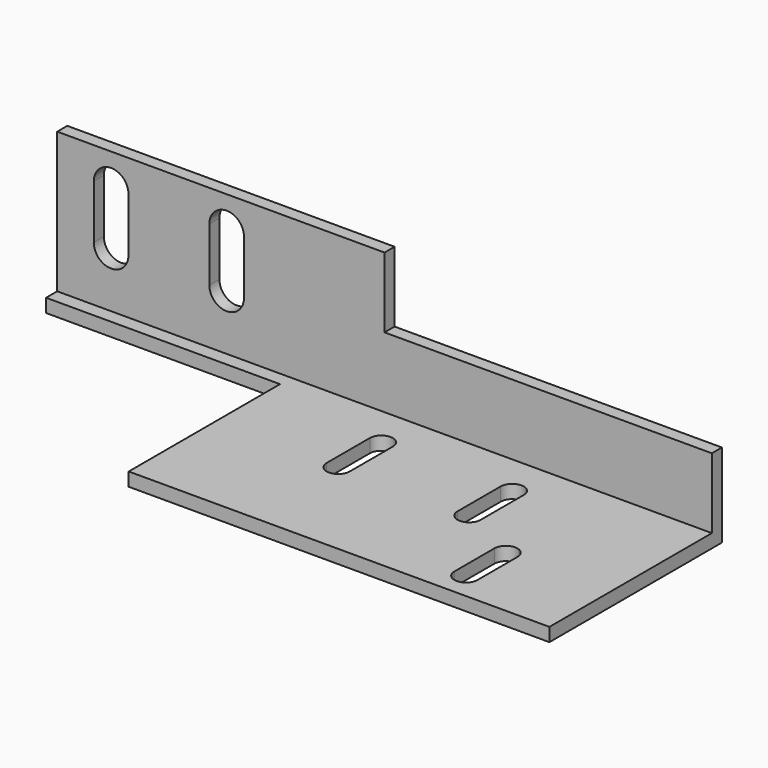
from build123d import *

# Parameters (mm, degrees)
F0_W      = 85
F0_H      = 28
F1_DEPTH  = 20
F2_W      = 26.3659512028
F2_H      = 18.2506702654
F3_DEPTH  = 121
F4_W      = 30.3753349185
F4_H      = 24.556301102
F5_DEPTH  = 25
F6_W      = 42.5
F6_H      = 9.1253351327
F7_DEPTH  = 25
F9_DEPTH  = 25
F11_DEPTH = 25


with BuildPart() as f1:
    # F0 (on Top) → F1 (new body)
    with BuildSketch(Plane.XY):
        Rectangle(F0_W, F0_H)
    extrude(amount=F1_DEPTH)

    # F2 (on face) → F3 (cut)
    with BuildSketch(Plane.YZ.offset(42.5)):
        with Locations((-0.8170243986, 10.8746648673)):
            Rectangle(F2_W, F2_H)
    extrude(amount=-F3_DEPTH, mode=Mode.SUBTRACT)

    # F4 (on face) → F5 (cut)
    with BuildSketch(Plane.XY.offset(1.7493297346)):
        with Locations((-27.3123325408, -1.721849449)):
            Rectangle(F4_W, F4_H)
    extrude(amount=-F5_DEPTH, mode=Mode.SUBTRACT)

    # F6 (on face) → F7 (cut)
    with BuildSketch(Plane.XZ.offset(-12.3659512028)):
        with Locations((21.25, 15.4373324336)):
            Rectangle(F6_W, F6_H)
    extrude(amount=-F7_DEPTH, mode=Mode.SUBTRACT)

    # F8 (on face) → F9 (cut)
    with BuildSketch(Plane.XZ.offset(-12.3659512028)):
        with BuildLine():
            ThreePointArc((-37.75, 15.8746648673), (-35.5, 13.6246648673), (-33.25, 15.8746648673))
            ThreePointArc((-33.25, 15.8746648673), (-35.5, 18.1246648673), (-37.75, 15.8746648673))
        make_face()
        with BuildLine():
            Line((-33.25, 8.8746648673), (-33.25, 15.8746648673))
            ThreePointArc((-33.25, 15.8746648673), (-35.5, 13.6246648673), (-37.75, 15.8746648673))
            Line((-37.75, 15.8746648673), (-37.75, 8.8746648673))
            ThreePointArc((-37.75, 8.8746648673), (-35.5, 11.1246648673), (-33.25, 8.8746648673))
        make_face()
        with BuildLine():
            ThreePointArc((-37.75, 8.8746648673), (-35.5, 6.6246648673), (-33.25, 8.8746648673))
            ThreePointArc((-33.25, 8.8746648673), (-35.5, 11.1246648673), (-37.75, 8.8746648673))
        make_face()
        with BuildLine():
            ThreePointArc((-22.75, 8.8746648673), (-20.5, 6.6246648673), (-18.25, 8.8746648673))
            ThreePointArc((-18.25, 8.8746648673), (-20.5, 11.1246648673), (-22.75, 8.8746648673))
        make_face()
        with BuildLine():
            ThreePointArc((-22.75, 8.8746648673), (-20.5, 11.1246648673), (-18.25, 8.8746648673))
            Line((-18.25, 8.8746648673), (-18.25, 15.8746648673))
            ThreePointArc((-18.25, 15.8746648673), (-20.5, 13.6246648673), (-22.75, 15.8746648673))
            Line((-22.75, 15.8746648673), (-22.75, 8.8746648673))
        make_face()
        with BuildLine():
            ThreePointArc((-22.75, 15.8746648673), (-20.5, 13.6246648673), (-18.25, 15.8746648673))
            ThreePointArc((-18.25, 15.8746648673), (-20.5, 18.1246648673), (-22.75, 15.8746648673))
        make_face()
    extrude(amount=-F9_DEPTH, mode=Mode.SUBTRACT)

    # F10 (on face) → F11 (cut)
    with BuildSketch(Plane.XY.offset(1.7493297346)):
        with BuildLine():
            ThreePointArc((2.3753349185, 7), (3.8753349185, 5.5), (5.3753349185, 7))
            ThreePointArc((5.3753349185, 7), (3.8753349185, 8.5), (2.3753349185, 7))
        make_face()
        with BuildLine():
            Line((5.3753349185, 0), (5.3753349185, 7))
            ThreePointArc((5.3753349185, 7), (3.8753349185, 5.5), (2.3753349185, 7))
            Line((2.3753349185, 7), (2.3753349185, 0))
            ThreePointArc((2.3753349185, 0), (3.8753349185, 1.5), (5.3753349185, 0))
        make_face()
        with BuildLine():
            ThreePointArc((2.3753349185, 0), (3.8753349185, -1.5), (5.3753349185, 0))
            ThreePointArc((5.3753349185, 0), (3.8753349185, 1.5), (2.3753349185, 0))
        make_face()
        with BuildLine():
            ThreePointArc((19.3753349185, 7), (20.8753349185, 5.5), (22.3753349185, 7))
            ThreePointArc((22.3753349185, 7), (20.8753349185, 8.5), (19.3753349185, 7))
        make_face()
        with BuildLine():
            Line((22.3753349185, 0), (22.3753349185, 7))
            ThreePointArc((22.3753349185, 7), (20.8753349185, 5.5), (19.3753349185, 7))
            Line((19.3753349185, 7), (19.3753349185, 0))
            ThreePointArc((19.3753349185, 0), (20.8753349185, 1.5), (22.3753349185, 0))
        make_face()
        with BuildLine():
            ThreePointArc((19.3753349185, 0), (20.8753349185, -1.5), (22.3753349185, 0))
            ThreePointArc((22.3753349185, 0), (20.8753349185, 1.5), (19.3753349185, 0))
        make_face()
        with BuildLine():
            ThreePointArc((27.3753349185, -4.0281792737), (28.8753349185, -5.5281792737), (30.3753349185, -4.0281792737))
            ThreePointArc((30.3753349185, -4.0281792737), (28.8753349185, -2.5281792737), (27.3753349185, -4.0281792737))
        make_face()
        with BuildLine():
            Line((30.3753349185, -10.5132134631), (30.3753349185, -4.0281792737))
            ThreePointArc((30.3753349185, -4.0281792737), (28.8753349185, -5.5281792737), (27.3753349185, -4.0281792737))
            Line((27.3753349185, -4.0281792737), (27.3753349185, -10.5132134631))
            ThreePointArc((27.3753349185, -10.5132134631), (28.8753349185, -9.0132134631), (30.3753349185, -10.5132134631))
        make_face()
        with BuildLine():
            ThreePointArc((27.3753349185, -10.5132134631), (28.8753349185, -12.0132134631), (30.3753349185, -10.5132134631))
            ThreePointArc((30.3753349185, -10.5132134631), (28.8753349185, -9.0132134631), (27.3753349185, -10.5132134631))
        make_face()
    extrude(amount=-F11_DEPTH, mode=Mode.SUBTRACT)


solid = f1.part
